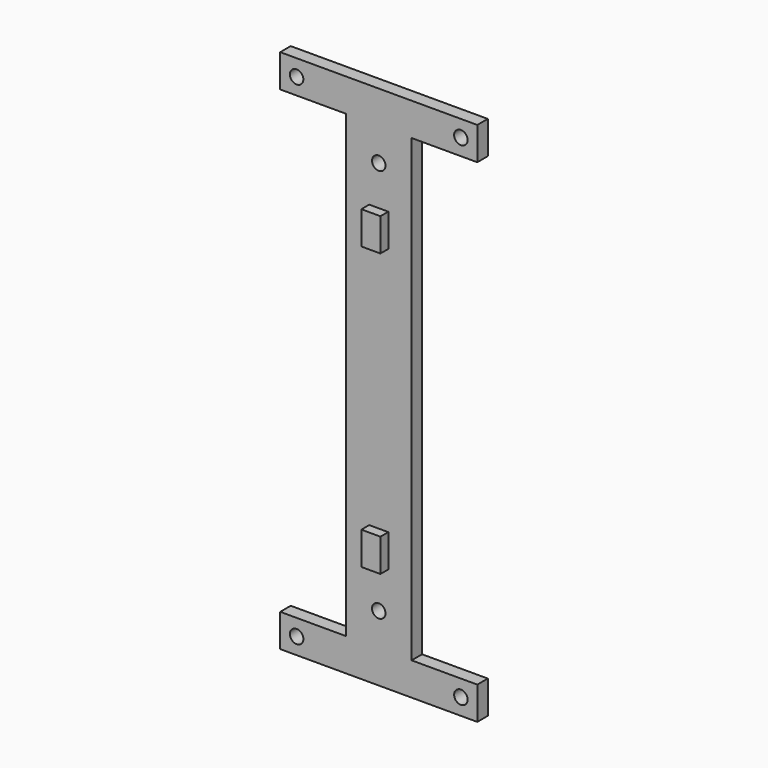
from build123d import *

# Parameters (mm, degrees)
F0_W     = 20
F0_H     = 10
F0_R     = 2.05
F0_H_2   = 140
F0_W_2   = 5.8
F1_DEPTH = 4
F2_DEPTH = 3


with BuildPart() as f1:
    # F0 (on Front) → F1 (new body)
    with BuildSketch(Plane.XZ):
        with Locations((-20, 75)):
            Rectangle(F0_W, F0_H)
        with Locations((-25, 75)):
            Circle(F0_R, mode=Mode.SUBTRACT)
        with Locations((20, 75)):
            Rectangle(F0_W, F0_H)
        with Locations((25, 75)):
            Circle(F0_R, mode=Mode.SUBTRACT)
        with Locations((0, 75)):
            Rectangle(F0_W, F0_H)
        Rectangle(F0_W, F0_H_2)
        with Locations((0, -60)):
            Circle(F0_R, mode=Mode.SUBTRACT)
        with Locations((0, -42.95)):
            Rectangle(F0_W_2, F0_H, mode=Mode.SUBTRACT)
        with Locations((0, 42.95)):
            Rectangle(F0_W_2, F0_H, mode=Mode.SUBTRACT)
        with Locations((0, 60)):
            Circle(F0_R, mode=Mode.SUBTRACT)
        with Locations((-20, -75)):
            Rectangle(F0_W, F0_H)
        with Locations((-25, -75)):
            Circle(F0_R, mode=Mode.SUBTRACT)
        with Locations((0, -75)):
            Rectangle(F0_W, F0_H)
        with Locations((20, -75)):
            Rectangle(F0_W, F0_H)
        with Locations((25, -75)):
            Circle(F0_R, mode=Mode.SUBTRACT)
        with Locations((0, 42.95)):
            Rectangle(F0_W_2, F0_H)
        with Locations((0, -42.95)):
            Rectangle(F0_W_2, F0_H)
    extrude(amount=-F1_DEPTH)

    # F0 (on Front) → F2 (join)
    with BuildSketch(Plane.XZ):
        with Locations((0, 42.95)):
            Rectangle(F0_W_2, F0_H)
        with Locations((0, -42.95)):
            Rectangle(F0_W_2, F0_H)
    extrude(amount=F2_DEPTH)


solid = f1.part
